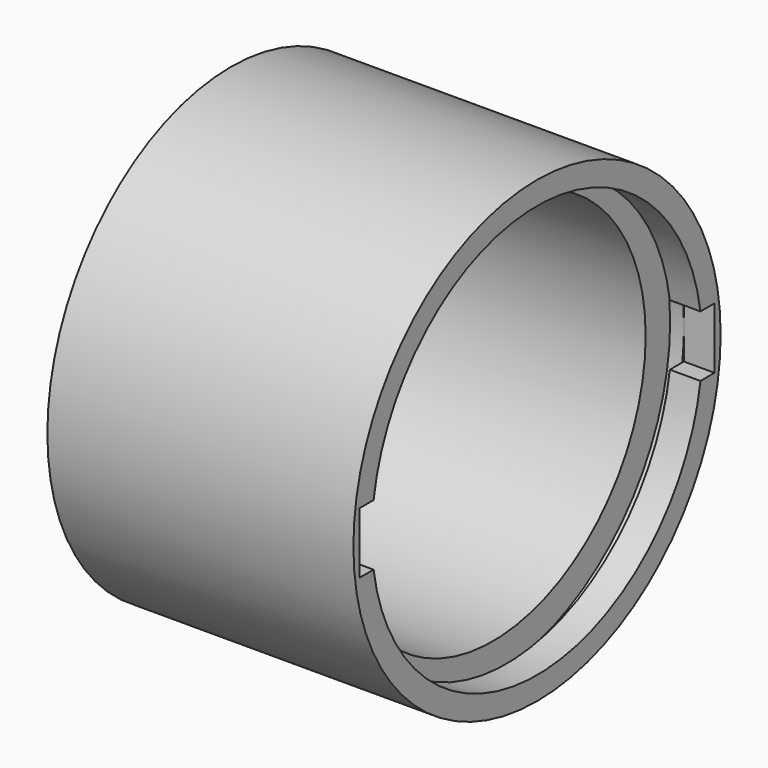
from build123d import *

# Parameters (mm, degrees)
F0_R     = 38.1
F1_DEPTH = 50.8
F2_R     = 31.75
F3_DEPTH = 45.212
F4_R     = 34.29
F5_DEPTH = 5.08
F6_W     = 73.66
F6_H     = 10.16
F7_DEPTH = 5.08
F8_R     = 36.83
F9_DEPTH = 2.286


with BuildPart() as f1:
    # F0 (on Right) → F1 (new body)
    with BuildSketch(Plane.YZ):
        Circle(F0_R)
    extrude(amount=F1_DEPTH)

    # F2 (on face) → F3 (cut)
    with BuildSketch(Plane.YZ.offset(50.8)):
        Circle(F2_R)
    extrude(amount=-F3_DEPTH, mode=Mode.SUBTRACT)

    # F4 (on face) → F5 (cut)
    with BuildSketch(Plane.YZ.offset(50.8)):
        Circle(F4_R)
    extrude(amount=-F5_DEPTH, mode=Mode.SUBTRACT)

    # F6 (on face) → F7 (cut)
    with BuildSketch(Plane.YZ.offset(50.8)):
        Rectangle(F6_W, F6_H)
    extrude(amount=-F7_DEPTH, mode=Mode.SUBTRACT)

    # F8 (on face) → F9 (cut)
    with BuildSketch(Plane.YZ.offset(45.72)):
        Circle(F8_R)
    extrude(amount=-F9_DEPTH, mode=Mode.SUBTRACT)


solid = f1.part
